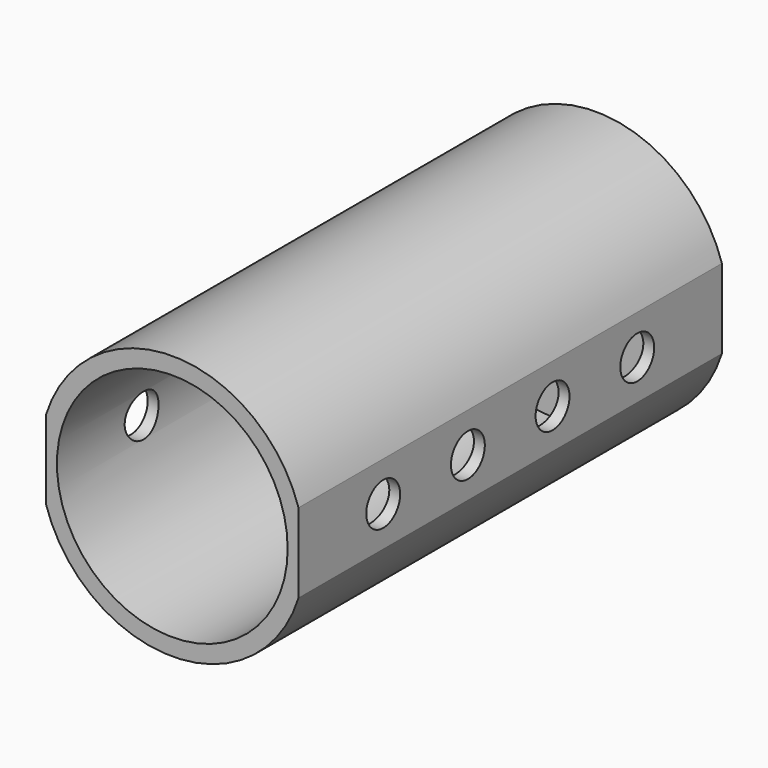
from build123d import *

# Parameters (mm, degrees)
F1_DEPTH = 63.5
F2_R     = 13.843
F3_DEPTH = 57.15
F4_R     = 3.175
F5_DEPTH = 6.35
F6_R     = 2.54
F7_DEPTH = 30.28857


with BuildPart() as f1:
    # F0 (on Front) → F1 (new body)
    with BuildSketch(Plane.XZ):
        with BuildLine():
            Line((15.143785, -4.7625), (15.143785, 4.7625))
            ThreePointArc((15.143785, 4.7625), (0, 15.875), (-15.143785, 4.7625))
            Line((-15.143785, 4.7625), (-15.143785, -4.7625))
            ThreePointArc((-15.143785, -4.7625), (0, -15.875), (15.143785, -4.7625))
        make_face()
    extrude(amount=F1_DEPTH)

    # F2 (on face) → F3 (cut)
    with BuildSketch(Plane.XZ.offset(63.5)):
        Circle(F2_R)
    extrude(amount=-F3_DEPTH, mode=Mode.SUBTRACT)

    # F4 (on face) → F5 (join)
    with BuildSketch(Plane(origin=(0, 0, 0), x_dir=(-1, 0, 0), z_dir=(0, 1, 0))):
        Circle(F4_R)
    extrude(amount=F5_DEPTH)

    # F6 (on face) → F7 (cut, through all)
    with BuildSketch(Plane(origin=(-15.143785, 0, 0), x_dir=(0, -1, 0), z_dir=(-1, 0, 0))):
        with Locations((12.7, 0)):
            Circle(F6_R)
        with Locations((50.8, 0)):
            Circle(F6_R)
        with Locations((25.4, 0)):
            Circle(F6_R)
        with Locations((38.1, 0)):
            Circle(F6_R)
    extrude(amount=-F7_DEPTH, mode=Mode.SUBTRACT)


solid = f1.part
